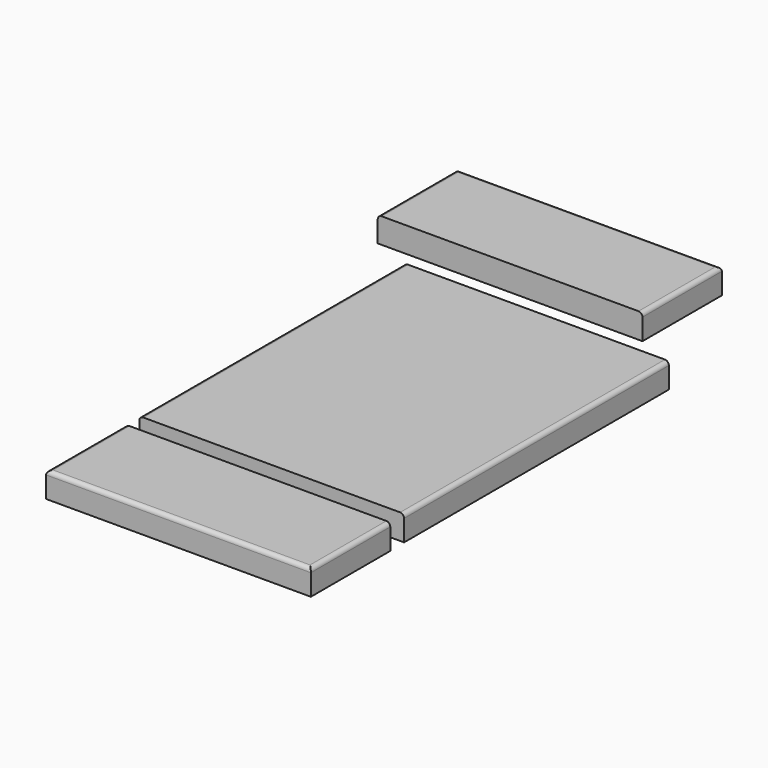
from build123d import *

# Parameters (mm, degrees)
F0_W     = 200
F0_H     = 250
F3_DEPTH = 19
F1_W     = 200
F1_H     = 75
F4_DEPTH = 19
F2_W     = 200
F2_H     = 75
F5_DEPTH = 19
F6_R     = 3
F6_2_R   = 3
F6_3_R   = 3


with BuildPart() as f3:
    # F0 (on Top) → F3 (new body)
    with BuildSketch(Plane.XY):
        with Locations((-54.883, -17.136587)):
            Rectangle(F0_W, F0_H)
    extrude(amount=F3_DEPTH)

    # F6#2
    f6_2_edges = [f3.edges().sort_by_distance(p)[0] for p in [
        (45.117, -17.136587, 19),
        (-154.883, -17.136587, 19),
    ]]
    fillet(f6_2_edges, radius=F6_2_R)


with BuildPart() as f4:
    # F1 (on Top) → F4 (new body)
    with BuildSketch(Plane.XY):
        with Locations((-54.433488, -193.247341)):
            Rectangle(F1_W, F1_H)
    extrude(amount=F4_DEPTH)

    # F6#3
    f6_3_edges = [f4.edges().sort_by_distance(p)[0] for p in [
        (-154.433488, -193.247341, 19),
        (-54.433488, -230.747341, 19),
        (45.566512, -193.247341, 19),
    ]]
    fillet(f6_3_edges, radius=F6_3_R)


with BuildPart() as f5:
    # F2 (on Top) → F5 (new body)
    with BuildSketch(Plane.XY):
        with Locations((-105.629673, 183.888775)):
            Rectangle(F2_W, F2_H)
    extrude(amount=F5_DEPTH)

    # F6
    f6_edges = [f5.edges().sort_by_distance(p)[0] for p in [
        (-205.629673, 183.888775, 19),
        (-105.629673, 221.388775, 19),
        (-5.629673, 183.888775, 19),
    ]]
    fillet(f6_edges, radius=F6_R)


solid = Compound([f3.part, f4.part, f5.part])
